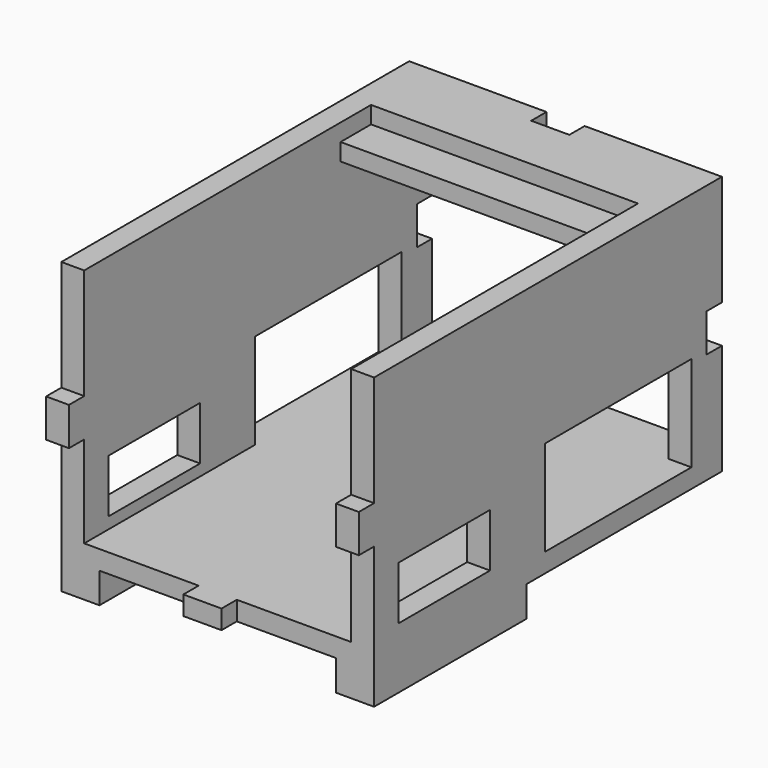
from build123d import *

# Parameters (mm, degrees)
F0_W      = 41
F0_H      = 57
F1_DEPTH  = 34
F2_W      = 35
F2_H      = 29
F3_DEPTH  = 57
F4_W      = 3
F4_H      = 5
F4_W_2    = 5
F4_H_2    = 2.5
F5_DEPTH  = 2.5
F6_W      = 35
F6_H      = 2.5
F7_DEPTH  = 47
F8_W      = 24
F8_H      = 12.5
F9_DEPTH  = 41.001
F10_W     = 5
F10_H     = 25
F11_DEPTH = 4
F12_W     = 15
F12_H     = 7
F13_DEPTH = 41.001
F14_DEPTH = 2
F15_W     = 35
F15_H     = 2.25
F16_DEPTH = 5
F17_W     = 3
F17_H     = 5
F17_W_2   = 5
F17_H_2   = 2.5
F18_DEPTH = 2.5


with BuildPart() as f1:
    # F0 (on Top) → F1 (new body)
    with BuildSketch(Plane.XY):
        with Locations((-0.472872518, -12.8149892955)):
            Rectangle(F0_W, F0_H)
    extrude(amount=F1_DEPTH)

    # F2 (on face) → F3 (cut, through all)
    with BuildSketch(Plane.XZ.offset(41.3149892955)):
        with Locations((-0.472872518, 17)):
            Rectangle(F2_W, F2_H)
    extrude(amount=-F3_DEPTH, mode=Mode.SUBTRACT)

    # F4 (on face) → F5 (cut)
    with BuildSketch(Plane(origin=(0, 15.6850107045, 0), x_dir=(-1, 0, 0), z_dir=(0, 1, 0))):
        with Locations((-18.527127482, 17)):
            Rectangle(F4_W, F4_H)
        with Locations((0.472872518, 32.75)):
            Rectangle(F4_W_2, F4_H_2)
        with Locations((19.472872518, 17)):
            Rectangle(F4_W, F4_H)
        with Locations((0.472872518, 1.25)):
            Rectangle(F4_W_2, F4_H_2)
    extrude(amount=-F5_DEPTH, mode=Mode.SUBTRACT)

    # F6 (on face) → F7 (cut)
    with BuildSketch(Plane.XZ.offset(41.3149892955)):
        with Locations((-0.472872518, 32.75)):
            Rectangle(F6_W, F6_H)
    extrude(amount=-F7_DEPTH, mode=Mode.SUBTRACT)

    # F8 (on face) → F9 (cut, through all)
    with BuildSketch(Plane.YZ.offset(20.027127482)):
        with Locations((-1.3149892955, 8.75)):
            Rectangle(F8_W, F8_H)
    extrude(amount=-F9_DEPTH, mode=Mode.SUBTRACT)

    # F10 (on face) → F11 (join)
    with BuildSketch(Plane(origin=(0, 0, 0), x_dir=(1, 0, 0), z_dir=(0, 0, -1))):
        with Locations((17.527127482, 28.8149892955)):
            Rectangle(F10_W, F10_H)
        with Locations((-18.472872518, 28.8149892955)):
            Rectangle(F10_W, F10_H)
    extrude(amount=F11_DEPTH)

    # F12 (on face) → F13 (cut, through all)
    with BuildSketch(Plane.YZ.offset(20.027127482)):
        with Locations((-29.8149892955, 7.5)):
            Rectangle(F12_W, F12_H)
    extrude(amount=-F13_DEPTH, mode=Mode.SUBTRACT)

    # F14 (add): a face of the model
    f14_faces = [f1.faces().sort_by_distance(p)[0] for p in [
        (-0.472872518, 10.5461218156, 31.5),
    ]]
    extrude(f14_faces, amount=F14_DEPTH)

    # F15 (on face) → F16 (join)
    with BuildSketch(Plane.XZ.offset(-5.6850107045)):
        with Locations((-0.472872518, 30.625)):
            Rectangle(F15_W, F15_H)
    extrude(amount=F16_DEPTH)

    # F17 (on face) → F18 (join)
    with BuildSketch(Plane.XZ.offset(41.3149892955)):
        with Locations((18.527127482, 17)):
            Rectangle(F17_W, F17_H)
        with Locations((-19.472872518, 17)):
            Rectangle(F17_W, F17_H)
        with Locations((-0.472872518, 1.25)):
            Rectangle(F17_W_2, F17_H_2)
    extrude(amount=F18_DEPTH)


solid = f1.part
